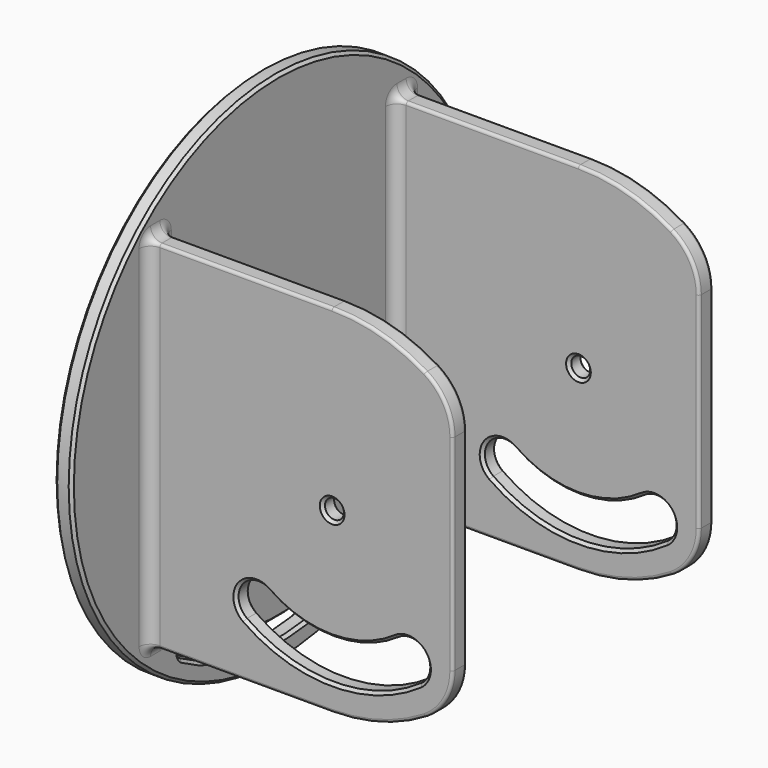
from build123d import *

# Parameters (mm, degrees)
SKETCH013_R     = 45
PAD004_DEPTH    = 3
SKETCH014_R     = 1.65
PAD005_DEPTH    = 3
FILLET001_R     = 0.5
FILLET002_R     = 2
CHAMFER001_SIZE = 0.5
CHAMFER002_SIZE = 0.5
CHAMFER003_SIZE = 0.5
SKETCH015_R     = 1.65
POCKET007_DEPTH = 35.001
CHAMFER004_SIZE = 0.5


with BuildPart() as part:
    # Sketch013 → Pad004 (new body)
    with BuildSketch(Plane.YZ.offset(-35)):
        with Locations((0, 30.3506240158)):
            Circle(SKETCH013_R)
    extrude(amount=PAD004_DEPTH)

    # Sketch014 → Pad005 (join)
    with BuildSketch(Plane.XZ.offset(-25.3)):
        with BuildLine():
            Line((-32, 61.5), (0, 61.5))
            ThreePointArc((16.2380952381, 56.90689802), (8.4375992255, 60.3296315651), (0, 61.5))
            ThreePointArc((21, 48.38854382), (19.7287156094, 53.2680441847), (16.2380952381, 56.90689802))
            Line((21, 48.38854382), (21, 12.61145618))
            ThreePointArc((16.2380952381, 4.09310198), (19.7287156094, 7.7319558153), (21, 12.61145618))
            ThreePointArc((0, -0.5), (8.4375992255, 0.6703684349), (16.2380952381, 4.09310198))
            Line((0, -0.5), (-32, -0.5))
            Line((-32, -0.5), (-32, 61.5))
        make_face()
        with Locations((0, 30.5)):
            Circle(SKETCH014_R, mode=Mode.SUBTRACT)
        with BuildLine():
            ThreePointArc((-15.1997755633, 8.7924708263), (0, 4), (15.1997755633, 8.7924708263))
            ThreePointArc((15.1997755633, 8.7924708263), (16.0592901911, 13.6670205086), (11.1847405088, 14.5265351364))
            ThreePointArc((-11.1847405088, 14.5265351364), (0, 11), (11.1847405088, 14.5265351364))
            ThreePointArc((-11.1847405088, 14.5265351364), (-16.0592901911, 13.6670205086), (-15.1997755633, 8.7924708263))
        make_face(mode=Mode.SUBTRACT)
    pad005 = extrude(amount=-PAD005_DEPTH)

    # Mirrored003: Pad005 across XZ
    add(pad005.mirror(Plane.XZ))

    # Fillet001
    fillet001_edges = [part.edges().sort_by_distance(p)[0] for p in [
        (-16, -25.3, -0.5),
        (-16, -28.3, -0.5),
        (-16, 25.3, -0.5),
        (-16, 28.3, -0.5),
    ]]
    fillet(fillet001_edges, radius=FILLET001_R)

    # Fillet002
    fillet002_edges = [part.edges().sort_by_distance(p)[0] for p in [
        (-32, -28.3, 30.5),
        (-32, 25.3, 30.5),
    ]]
    fillet(fillet002_edges, radius=FILLET002_R)

    # Chamfer001
    chamfer001_edges = [part.edges().sort_by_distance(p)[0] for p in [
        (-32, -45, 30.350624),
        (-35, -45, 30.350624),
    ]]
    chamfer(chamfer001_edges, length=CHAMFER001_SIZE)

    # Chamfer002
    chamfer002_edges = [part.edges().sort_by_distance(p)[0] for p in [
        (0, -28.3, 11),
        (0, -25.3, 11),
        (0, 28.3, 11),
        (0, 25.3, 11),
    ]]
    chamfer(chamfer002_edges, length=CHAMFER002_SIZE)

    # Chamfer003
    chamfer003_edges = [part.edges().sort_by_distance(p)[0] for p in [
        (-1.65, 25.3, 30.5),
        (-1.65, -28.3, 30.5),
        (-1.65, -25.3, 30.5),
        (-1.65, 28.3, 30.5),
    ]]
    chamfer(chamfer003_edges, length=CHAMFER003_SIZE)

    # Sketch015 → Pocket007 (cut, through all)
    with BuildSketch(Plane.YZ):
        with Locations((0, 30.3506240158)):
            Circle(SKETCH015_R)
        with BuildLine():
            ThreePointArc((-20.85, -5.762635322), (0, -11.3493759842), (20.85, -5.762635322))
            ThreePointArc((20.85, -5.762635322), (21.4722431864, -3.4403921356), (19.15, -2.8181489491))
            ThreePointArc((-19.15, -2.8181489491), (0, -7.9493759842), (19.15, -2.8181489491))
            ThreePointArc((-19.15, -2.8181489491), (-21.4722431864, -3.4403921356), (-20.85, -5.762635322))
        make_face()
    extrude(amount=-POCKET007_DEPTH, mode=Mode.SUBTRACT)

    # Chamfer004
    chamfer004_edges = [part.edges().sort_by_distance(p)[0] for p in [
        (-32, -1.65, 30.350624),
        (-32, 0, -7.949376),
        (-35, 0, -7.949376),
        (-35, -1.65, 30.350624),
    ]]
    chamfer(chamfer004_edges, length=CHAMFER004_SIZE)


solid = part.part
